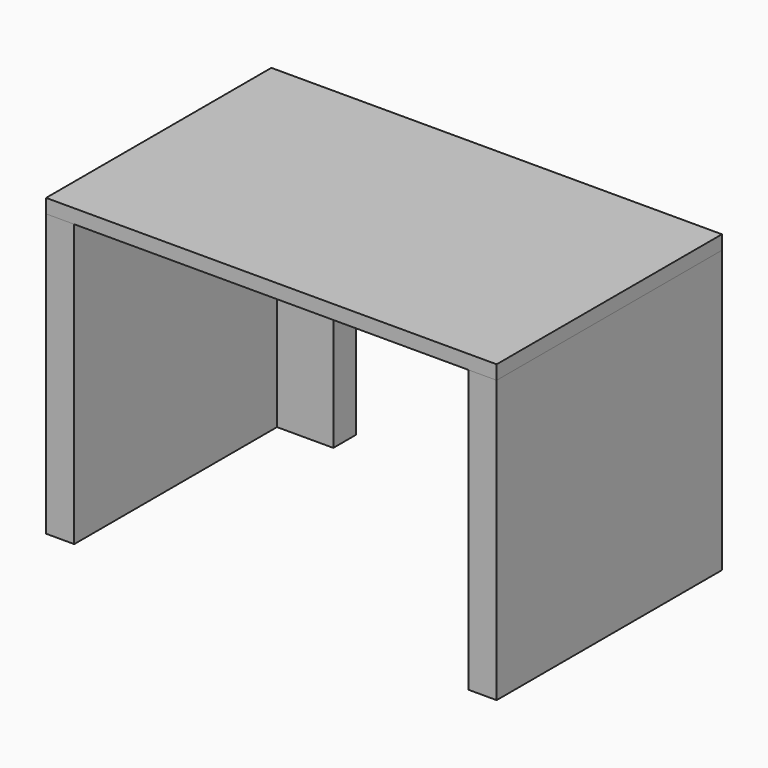
from build123d import *

# Parameters (mm, degrees)
F0_W     = 560
F0_H     = 400
F0_W_2   = 40
F1_DEPTH = 20
F2_DEPTH = 400
F3_W     = 80
F3_H     = 40
F4_DEPTH = 400


with BuildPart() as f1:
    # F0 (on Top) → F1 (new body)
    with BuildSketch(Plane.XY):
        with Locations((184.322051, -138.555664)):
            Rectangle(F0_W, F0_H)
        with Locations((-115.677949, -138.555664)):
            Rectangle(F0_W_2, F0_H)
        with Locations((484.322051, -138.555664)):
            Rectangle(F0_W_2, F0_H)
    extrude(amount=F1_DEPTH)


with BuildPart() as f2:
    # F0 (on Top) → F2 (new body)
    with BuildSketch(Plane.XY):
        with Locations((-115.677949, -138.555664)):
            Rectangle(F0_W_2, F0_H)
        with Locations((484.322051, -138.555664)):
            Rectangle(F0_W_2, F0_H)
    extrude(amount=-F2_DEPTH)


with BuildPart() as f4:
    # F3 (on face) → F4 (new body, through all)
    with BuildSketch(Plane.XY):
        with Locations((-55.677949, 41.444336)):
            Rectangle(F3_W, F3_H)
    extrude(amount=-F4_DEPTH)


solid = Compound([f1.part, f2.part, f4.part])
